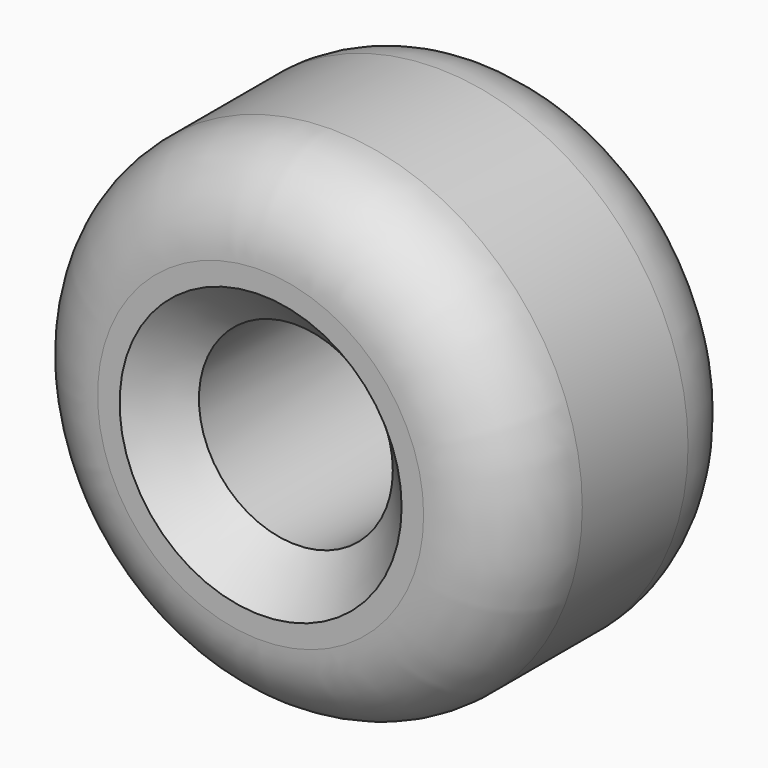
from build123d import *

# Parameters (mm, degrees)
F0_R     = 28.5
F0_R_2   = 11
F1_DEPTH = 17.5
F2_R     = 10
F3_SIZE  = 5


with BuildPart() as f1:
    # F0 (on Front) → F1 (new body, symmetric)
    with BuildSketch(Plane.XZ):
        Circle(F0_R)
        Circle(F0_R_2, mode=Mode.SUBTRACT)
    extrude(amount=F1_DEPTH, both=True)

    # F2
    f2_edges = [f1.edges().sort_by_distance(p)[0] for p in [
        (-28.5, -17.5, 0),
        (-28.5, 17.5, 0),
    ]]
    fillet(f2_edges, radius=F2_R)

    # F3
    f3_edges = [f1.edges().sort_by_distance(p)[0] for p in [
        (28.5, 0, 0),
        (-28.5, 7.5, 0),
        (-28.5, -7.5, 0),
        (-11, -17.5, 0),
        (-11, 17.5, 0),
    ]]
    chamfer(f3_edges, length=F3_SIZE)


solid = f1.part
